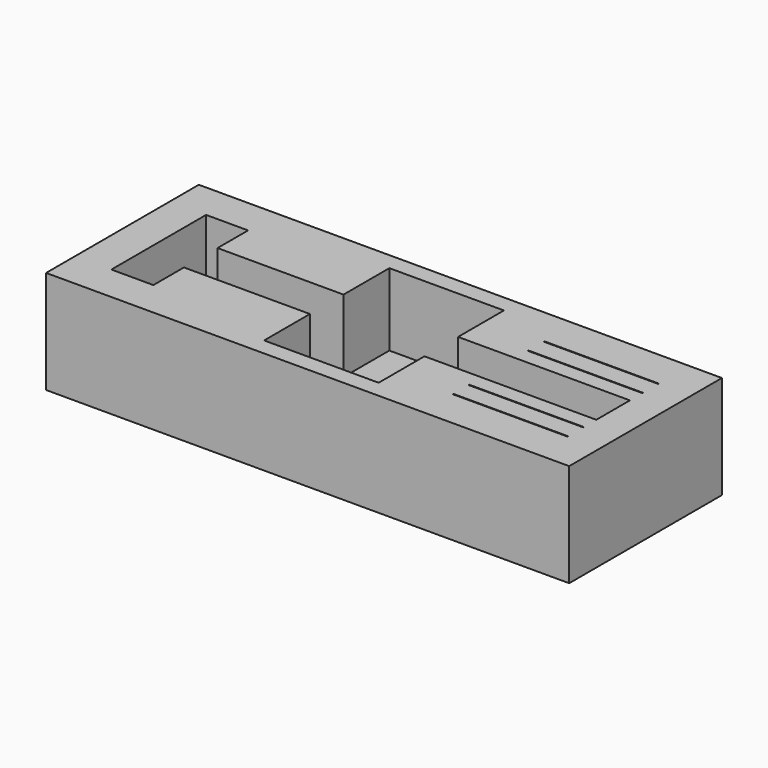
from build123d import *

# Parameters (mm, degrees)
F0_W     = 137
F0_H     = 50
F1_DEPTH = 27
F3_DEPTH = 22
F4_W     = 30
F4_H     = 15
F5_DEPTH = 22
F6_W     = 30
F6_H     = 0.2
F7_DEPTH = 7
F8_W     = 111.232903
F8_H     = 43.907728
F9_DEPTH = 3


with BuildPart() as f1:
    # F0 (on Top) → F1 (new body)
    with BuildSketch(Plane.XY):
        with Locations((68.5, 25)):
            Rectangle(F0_W, F0_H)
    extrude(amount=F1_DEPTH)

    # F2 (on face) → F3 (cut)
    with BuildSketch(Plane.XY.offset(27)):
        Polygon((20.5, 40.5), (9.5, 40.5), (9.5, 9.5), (20.5, 9.5), (20.5, 19.5), (128.5, 19.5), (128.5, 30.5), (20.5, 30.5), align=None)
    extrude(amount=-F3_DEPTH, mode=Mode.SUBTRACT)

    # F4 (on face) → F5 (cut)
    with BuildSketch(Plane.XY.offset(27)):
        with Locations((68.5, 38)):
            Rectangle(F4_W, F4_H)
        with Locations((68.5, 12)):
            Rectangle(F4_W, F4_H)
    extrude(amount=-F5_DEPTH, mode=Mode.SUBTRACT)

    # F6 (on face) → F7 (cut)
    with BuildSketch(Plane.XY.offset(27)):
        with Locations((113.5, 39.9)):
            Rectangle(F6_W, F6_H)
        with Locations((113.5, 34.7)):
            Rectangle(F6_W, F6_H)
        with Locations((113.5, 15.3)):
            Rectangle(F6_W, F6_H)
        with Locations((113.5, 10.1)):
            Rectangle(F6_W, F6_H)
    extrude(amount=-F7_DEPTH, mode=Mode.SUBTRACT)

    # F8 (on face) → F9 (join)
    with BuildSketch(Plane.XY.offset(5)):
        with Locations((76.116451, 25.134819)):
            Rectangle(F8_W, F8_H)
    extrude(amount=F9_DEPTH)


solid = f1.part
